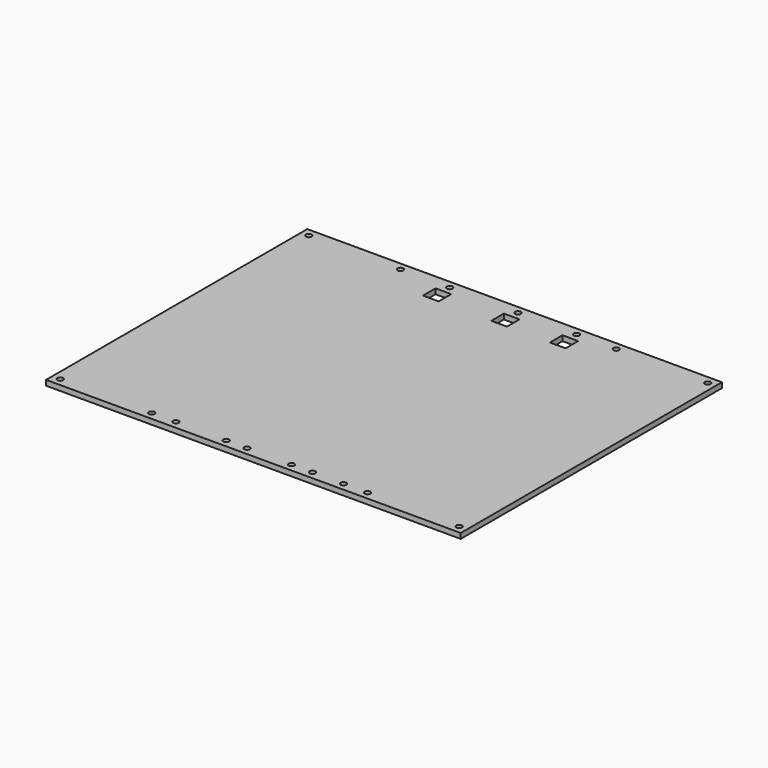
from build123d import *

# Parameters (mm, degrees)
F0_W     = 251.524948
F0_H     = 198.058253
F0_R     = 1.7272
F0_W_2   = 9.525
F0_H_2   = 9.525
F1_DEPTH = 3.175


with BuildPart() as f1:
    # F0 (on Top) → F1 (new body)
    with BuildSketch(Plane.XY):
        with Locations((125.762474, -99.029126)):
            Rectangle(F0_W, F0_H)
        with Locations((4.7625, -193.295753)):
            Circle(F0_R, mode=Mode.SUBTRACT)
        with Locations((60.325, -193.295753)):
            Circle(F0_R, mode=Mode.SUBTRACT)
        with Locations((74.93, -193.295753)):
            Circle(F0_R, mode=Mode.SUBTRACT)
        with Locations((105.464991, -193.295753)):
            Circle(F0_R, mode=Mode.SUBTRACT)
        with Locations((118.164991, -193.295753)):
            Circle(F0_R, mode=Mode.SUBTRACT)
        with Locations((145.099938, -193.295753)):
            Circle(F0_R, mode=Mode.SUBTRACT)
        with Locations((157.799938, -193.295753)):
            Circle(F0_R, mode=Mode.SUBTRACT)
        with Locations((176.594948, -193.295753)):
            Circle(F0_R, mode=Mode.SUBTRACT)
        with Locations((191.199948, -193.295753)):
            Circle(F0_R, mode=Mode.SUBTRACT)
        with Locations((246.762448, -193.295753)):
            Circle(F0_R, mode=Mode.SUBTRACT)
        with Locations((4.7625, -4.7625)):
            Circle(F0_R, mode=Mode.SUBTRACT)
        with Locations((60.325, -4.7625)):
            Circle(F0_R, mode=Mode.SUBTRACT)
        with Locations((90.197496, -14.2875)):
            Rectangle(F0_W_2, F0_H_2, mode=Mode.SUBTRACT)
        with Locations((90.197496, -4.7625)):
            Circle(F0_R, mode=Mode.SUBTRACT)
        with Locations((131.632465, -14.2875)):
            Rectangle(F0_W_2, F0_H_2, mode=Mode.SUBTRACT)
        with Locations((131.632465, -4.7625)):
            Circle(F0_R, mode=Mode.SUBTRACT)
        with Locations((167.197443, -14.2875)):
            Rectangle(F0_W_2, F0_H_2, mode=Mode.SUBTRACT)
        with Locations((167.197443, -4.7625)):
            Circle(F0_R, mode=Mode.SUBTRACT)
        with Locations((191.199948, -4.7625)):
            Circle(F0_R, mode=Mode.SUBTRACT)
        with Locations((246.762448, -4.7625)):
            Circle(F0_R, mode=Mode.SUBTRACT)
    extrude(amount=F1_DEPTH)


solid = f1.part
